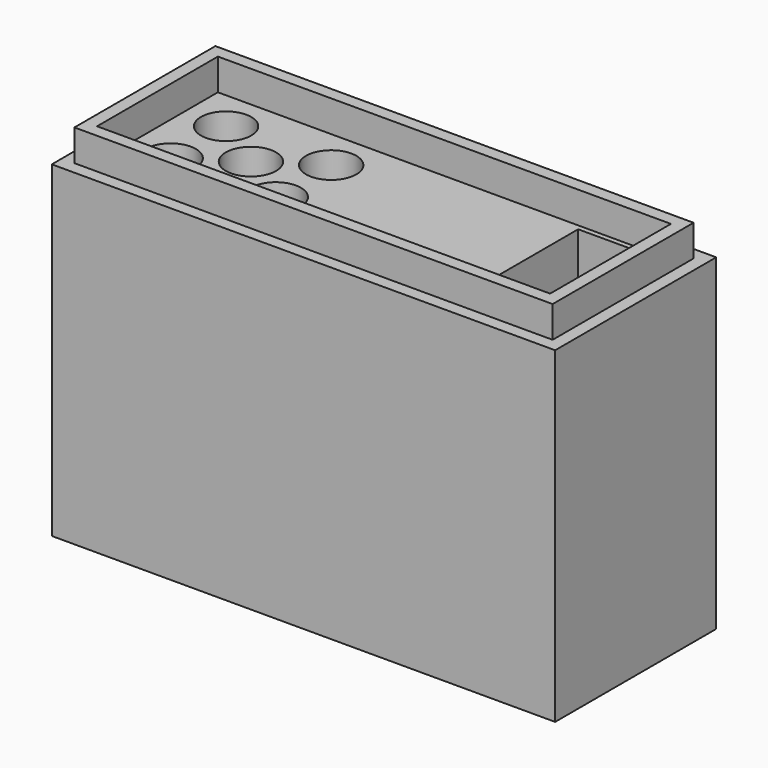
from build123d import *

# Parameters (mm, degrees)
F0_W     = 80
F0_H     = 32
F0_W_2   = 76
F0_H_2   = 28
F1_DEPTH = 52
F0_W_3   = 72
F0_H_3   = 24
F2_DEPTH = 57
F3_DEPTH = 52
F4_R     = 4
F4_W     = 11.847522
F4_H     = 22
F5_DEPTH = 47


with BuildPart() as f1:
    # F0 (on Top) → F1 (new body)
    with BuildSketch(Plane.XY):
        with Locations((-13.381271, 0.573133)):
            Rectangle(F0_W, F0_H)
        with Locations((-13.381271, 0.573133)):
            Rectangle(F0_W_2, F0_H_2, mode=Mode.SUBTRACT)
    extrude(amount=F1_DEPTH)

    # F0 (on Top) → F2 (join)
    with BuildSketch(Plane.XY):
        with Locations((-13.381271, 0.573133)):
            Rectangle(F0_W_2, F0_H_2)
        with Locations((-13.381271, 0.573133)):
            Rectangle(F0_W_3, F0_H_3, mode=Mode.SUBTRACT)
    extrude(amount=F2_DEPTH)

    # F0 (on Top) → F3 (join)
    with BuildSketch(Plane.XY):
        with Locations((-13.381271, 0.573133)):
            Rectangle(F0_W_3, F0_H_3)
    extrude(amount=F3_DEPTH)

    # F4 (on face) → F5 (cut)
    with BuildSketch(Plane.XY.offset(52)):
        with Locations((-42.881271, -4.926867)):
            Circle(F4_R)
        with Locations((-34.529625, 0.573133)):
            Circle(F4_R)
        with Locations((-26.177978, -4.926867)):
            Circle(F4_R)
        with Locations((-26.177978, 6.073133)):
            Circle(F4_R)
        with Locations((-42.881271, 6.073133)):
            Circle(F4_R)
        with Locations((14.454672, 0.753674)):
            Rectangle(F4_W, F4_H)
    extrude(amount=-F5_DEPTH, mode=Mode.SUBTRACT)


solid = f1.part
